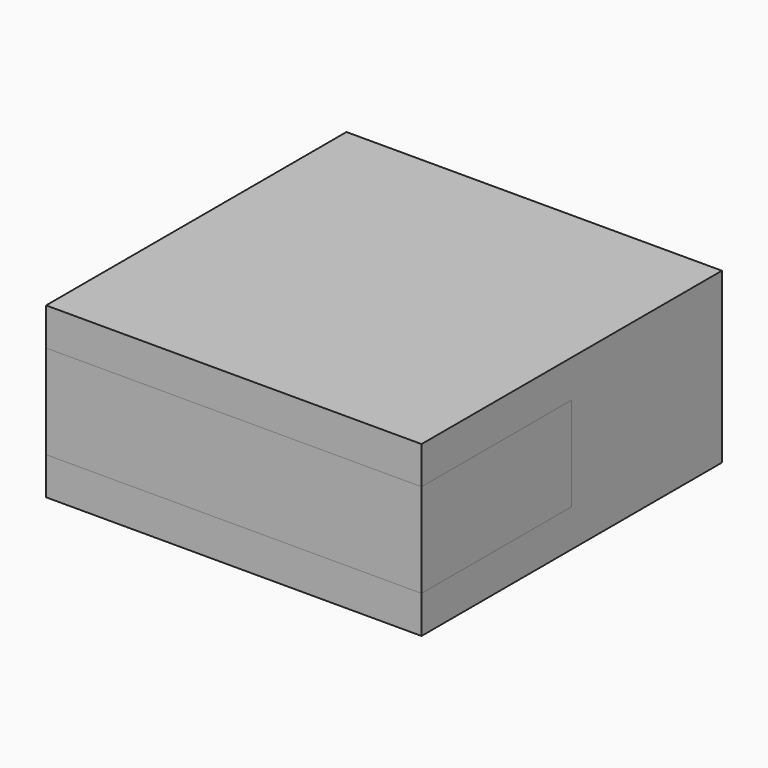
from build123d import *

# Parameters (mm, degrees)
BOX_W        = 20
BOX_H        = 20
BOX_DEPTH    = 9
BOX001_W     = 20
BOX001_H     = 10
BOX001_DEPTH = 5


with BuildPart() as cube:
    # Box → Box (new body)
    with BuildSketch(Plane.XY):
        with Locations((10, 10)):
            Rectangle(BOX_W, BOX_H)
    extrude(amount=BOX_DEPTH)


with BuildPart() as cube001:
    # Box001 → Box001 (new body)
    with BuildSketch(Plane.XY.offset(2)):
        with Locations((10, 5)):
            Rectangle(BOX001_W, BOX001_H)
    extrude(amount=BOX001_DEPTH)


solid = Compound([cube.part, cube001.part])
